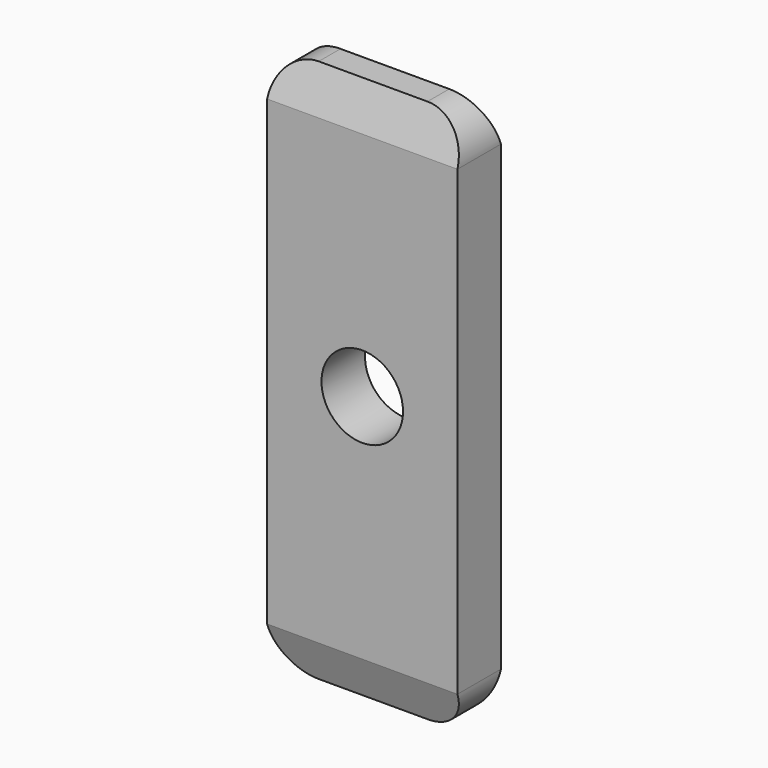
from build123d import *

# Parameters (mm, degrees)
F0_W       = 14
F0_H       = 40
F0_R       = 3
F1_DEPTH   = 2
F2_SIZE2   = 1
F2_SIZE    = 3
F2_2_SIZE2 = 1
F2_2_SIZE  = 3
F3_R       = 3


with BuildPart() as f1:
    # F0 (on Front) → F1 (new body, symmetric)
    with BuildSketch(Plane.XZ):
        Rectangle(F0_W, F0_H)
        Circle(F0_R, mode=Mode.SUBTRACT)
    extrude(amount=F1_DEPTH, both=True)

    # F2
    f2_edges = [f1.edges().sort_by_distance(p)[0] for p in [
        (0, -2, 20),
        (0, -2, -20),
    ]]
    f2_side = f1.faces().sort_by_distance((6.576208, -2, 0))[0]
    chamfer(f2_edges, length=F2_SIZE, length2=F2_SIZE2, reference=f2_side)

    # F2#2
    f2_2_edges = [f1.edges().sort_by_distance(p)[0] for p in [
        (0, 2, 20),
        (0, 2, -20),
    ]]
    f2_2_side = f1.faces().sort_by_distance((6.576208, 2, 0))[0]
    chamfer(f2_2_edges, length=F2_2_SIZE, length2=F2_2_SIZE2, reference=f2_2_side)

    # F3
    f3_edges = [f1.edges().sort_by_distance(p)[0] for p in [
        (7, 0, 20),
        (-7, 0, 20),
        (7, 0, -20),
        (-7, 0, -20),
    ]]
    fillet(f3_edges, radius=F3_R)


solid = f1.part
